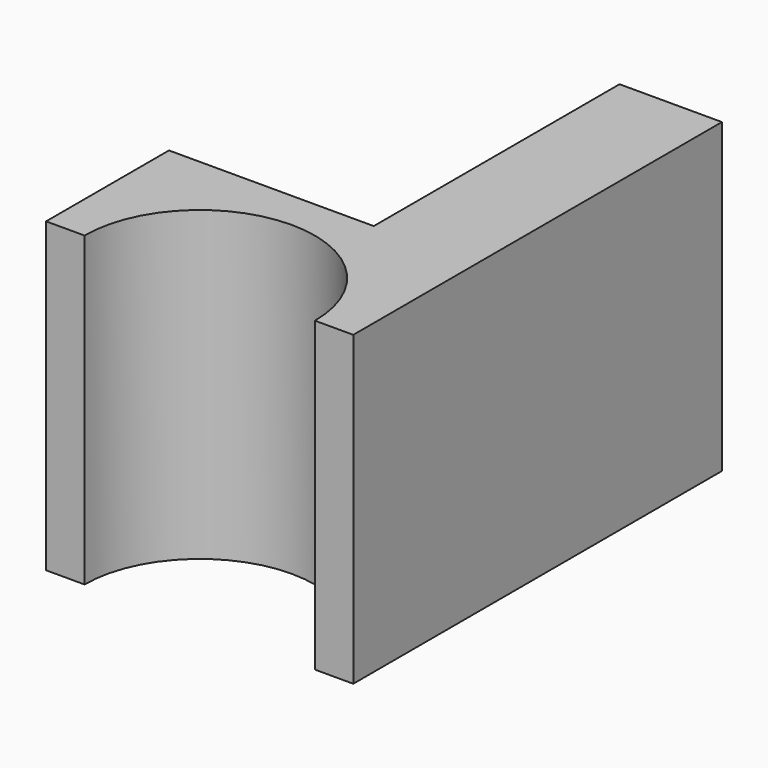
from build123d import *

# Parameters (mm, degrees)
F0_W     = 60
F0_H     = 60
F1_DEPTH = 90
F3_DEPTH = 74.5
F5_DEPTH = 60


with BuildPart() as f1:
    # F0 (on Front) → F1 (new body)
    with BuildSketch(Plane.XZ):
        with Locations((30, 30)):
            Rectangle(F0_W, F0_H)
    extrude(amount=F1_DEPTH)

    # F2 (on face) → F3 (cut)
    with BuildSketch(Plane.XY.offset(60)):
        with BuildLine():
            Line((7.5, -90), (52.5, -90))
            ThreePointArc((52.5, -90), (30, -67.5), (7.5, -90))
        make_face()
    extrude(amount=-F3_DEPTH, mode=Mode.SUBTRACT)

    # F4 (on face) → F5 (cut)
    with BuildSketch(Plane(origin=(0, 0, 0), x_dir=(-1, 0, 0), z_dir=(0, 1, 0))):
        with BuildLine():
            Line((0, 60), (-40, 60))
            ThreePointArc((-40, 60), (-28.284271, 31.715729), (0, 20))
            Line((0, 20), (0, 60))
        make_face()
    extrude(amount=-F5_DEPTH, mode=Mode.SUBTRACT)


solid = f1.part
